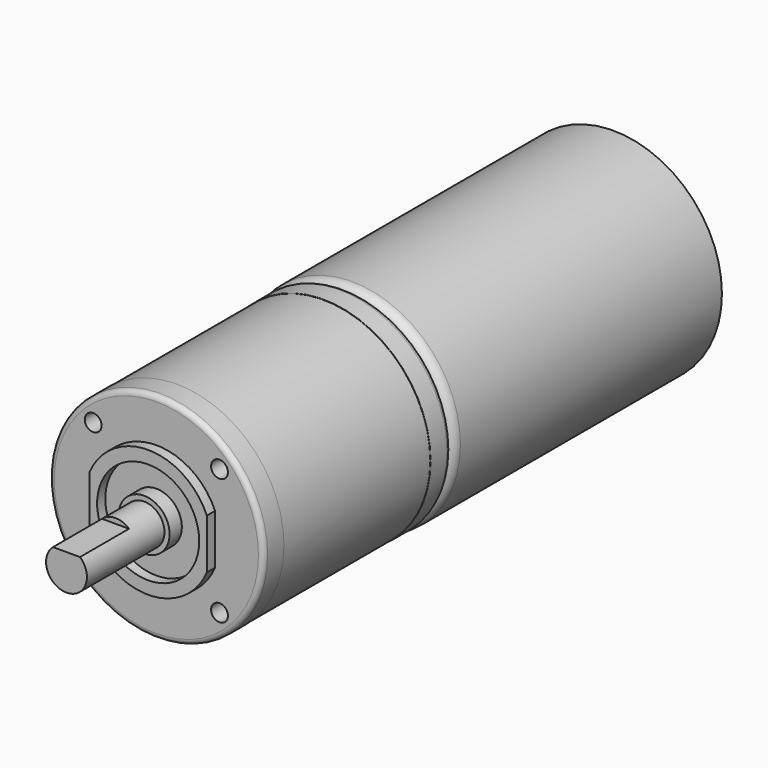
from build123d import *

# Parameters (mm, degrees)
F0_R      = 21.25
F1_DEPTH  = 66.03
F2_R      = 2
F3_R      = 21
F3_R_2    = 19.25
F4_DEPTH  = 5
F5_R      = 20.95
F6_DEPTH  = 35.9
F7_R      = 21
F7_R_2    = 20.95
F8_DEPTH  = 5
F9_R      = 10
F10_DEPTH = 2
F11_R     = 5
F12_DEPTH = 3
F13_R     = 4
F14_DEPTH = 19
F16_DEPTH = 12
F18_D     = 3.3
F18_DEPTH = 8.1
F18_TIP   = 0.9914200214
F19_R     = 1


with BuildPart() as f1:
    # F0 (on Front) → F1 (new body)
    with BuildSketch(Plane.XZ):
        Circle(F0_R)
    extrude(amount=F1_DEPTH)

    # F2
    f2_edges = [f1.edges().sort_by_distance(p)[0] for p in [
        (-21.25, -66.03, 0),
    ]]
    fillet(f2_edges, radius=F2_R)

    # F3 (on face) → F4 (join)
    with BuildSketch(Plane.XZ.offset(66.03)):
        Circle(F3_R)
        Circle(F3_R_2, mode=Mode.SUBTRACT)
        Circle(F3_R_2)
    extrude(amount=F4_DEPTH)

    # F5 (on face) → F6 (join)
    with BuildSketch(Plane.XZ.offset(71.03)):
        Circle(F5_R)
    extrude(amount=F6_DEPTH)

    # F7 (on face) → F8 (join)
    with BuildSketch(Plane.XZ.offset(106.93)):
        Circle(F7_R)
        Circle(F7_R_2, mode=Mode.SUBTRACT)
        Circle(F7_R_2)
    extrude(amount=F8_DEPTH)

    # F9 (on face) → F10 (join)
    with BuildSketch(Plane.XZ.offset(111.93)):
        with BuildLine():
            Line((11.5, -4.8989794856), (11.5, 4.8989794856))
            ThreePointArc((11.5, 4.8989794856), (0, 12.5), (-11.5, 4.8989794856))
            Line((-11.5, 4.8989794856), (-11.5, -4.8989794856))
            ThreePointArc((-11.5, -4.8989794856), (0, -12.5), (11.5, -4.8989794856))
        make_face()
        Circle(F9_R, mode=Mode.SUBTRACT)
    extrude(amount=F10_DEPTH)

    # F11 (on face) → F12 (join)
    with BuildSketch(Plane.XZ.offset(111.93)):
        Circle(F11_R)
    extrude(amount=F12_DEPTH)

    # F13 (on face) → F14 (join)
    with BuildSketch(Plane.XZ.offset(114.93)):
        Circle(F13_R)
    extrude(amount=F14_DEPTH)

    # F15 (on face) → F16 (cut)
    with BuildSketch(Plane.XZ.offset(133.93)):
        with BuildLine():
            Line((-2.6457513111, 3), (2.6457513111, 3))
            ThreePointArc((2.6457513111, 3), (0, 4), (-2.6457513111, 3))
        make_face()
    extrude(amount=-F16_DEPTH, mode=Mode.SUBTRACT)

    # F18
    with Locations(Plane.XZ.offset(111.93)):
        with Locations((-12.3743686708, 12.3743686708), (12.3743686708, 12.3743686708), (12.3743686708, -12.3743686708), (-12.3743686708, -12.3743686708)):
            Hole(F18_D / 2, depth=F18_DEPTH)
            with Locations((0, 0, -(F18_DEPTH + F18_TIP / 2))):  # 118° drill point
                Cone(0, F18_D / 2, F18_TIP, mode=Mode.SUBTRACT)

    # F19
    f19_edges = [f1.edges().sort_by_distance(p)[0] for p in [
        (-21, -66.03, 0),
        (-21, -111.93, 0),
    ]]
    fillet(f19_edges, radius=F19_R)


solid = f1.part
